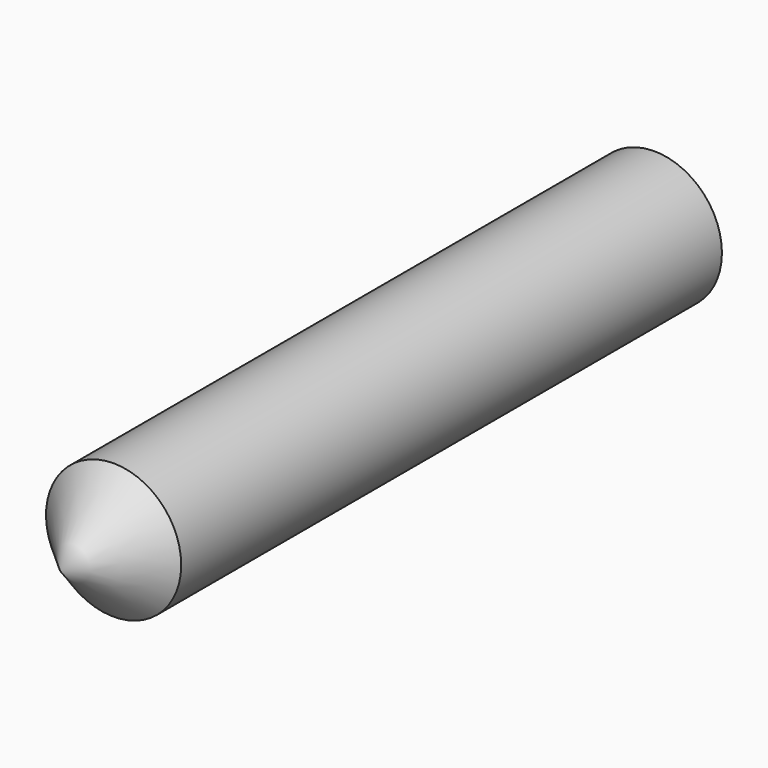
from build123d import *

# Parameters (mm, degrees)
F0_R     = 50
F1_DEPTH = 500


with BuildPart() as f1:
    # F0 (on Front) → F1 (new body)
    with BuildSketch(Plane.XZ):
        Circle(F0_R)
    extrude(amount=F1_DEPTH)

    # F2 (on Right) → F3 (revolve)
    with BuildSketch(Plane.YZ):
        Polygon((-549.524665, 0), (-500, 0), (-500, 50), align=None)
    revolve(axis=Axis((0, -274.762332, 0), (0, -1, 0)))


solid = f1.part
